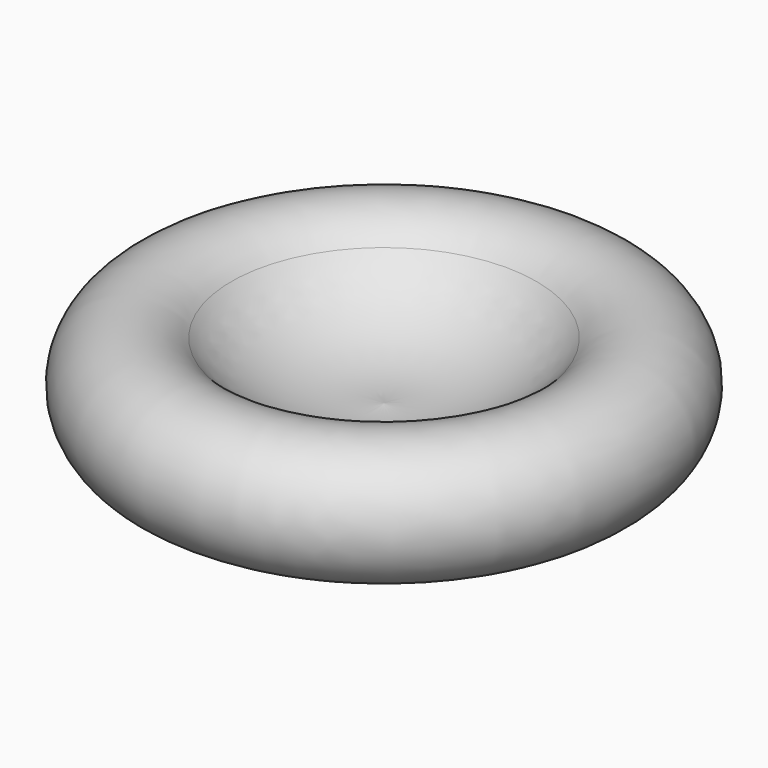
from build123d import *

# Parameters (mm, degrees)
F0_R = 13.015978


with BuildPart() as f1:
    # F0 (on Right) → F1 (revolve)
    with BuildSketch(Plane.YZ):
        with BuildLine():
            Line((-56.978418, 0), (0, 0))
            Line((0, 0), (0, 13.085604))
            ThreePointArc((0, 13.085604), (-23.767582, 15.646383), (-43.275912, 29.462338))
            ThreePointArc((-43.275912, 29.462338), (-73.224864, 25.473575), (-56.978418, 0))
        make_face()
        with Locations((-56.978418, 17.917588)):
            Circle(F0_R, mode=Mode.SUBTRACT)
        with Locations((-56.978418, 17.917588)):
            Circle(F0_R)
    revolve(axis=Axis((0, 0, 6.542802), (0, 0, 1)))


solid = f1.part
